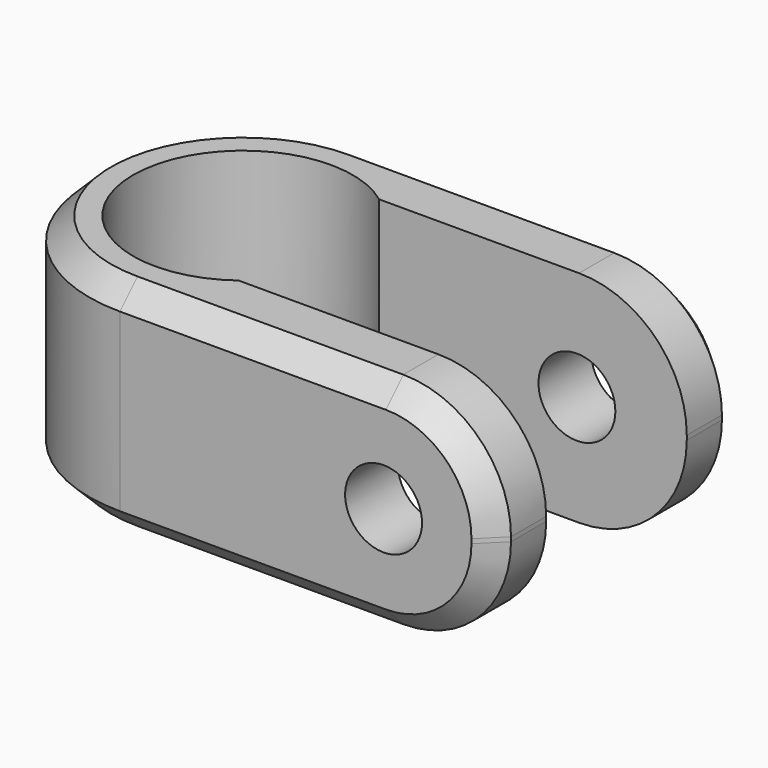
from build123d import *

# Parameters (mm, degrees)
CYLINDER_R          = 1.75
CYLINDER_DEPTH      = 20
CYLINDER_ROLL_ANGLE = -90
PAD006_DEPTH        = 10
FILLET_R            = 4.9
CHAMFER_SIZE        = 1


with BuildPart() as cylinder:
    # Cylinder → Cylinder (new body)
    with BuildSketch(Plane.XY):
        Circle(CYLINDER_R)
    extrude(amount=CYLINDER_DEPTH)


with BuildPart() as cylinder_1:
    # Cylinder roll: moved
    add(cylinder.part.rotate(Axis((0, 0, 0), (1, 0, 0)), CYLINDER_ROLL_ANGLE))


with BuildPart() as cylinder_2:
    # Cylinder placement: moved
    add(cylinder_1.part.moved(Location((12, -10, 5))))


with BuildPart() as chamfer_body:
    # Sketch005 → Pad006 (new body)
    with BuildSketch(Plane.XY):
        with BuildLine():
            ThreePointArc((3, 4), (-5, 0), (3, -4))
            Line((17, -4), (3, -4))
            Line((17, -7), (17, -4))
            Line((0, -7), (17, -7))
            ThreePointArc((0, 7), (-7, 0), (0, -7))
            Line((0, 7), (17, 7))
            Line((17, 4), (17, 7))
            Line((3, 4), (17, 4))
        make_face()
    extrude(amount=PAD006_DEPTH)

    # Cut004: cut Cylinder
    add(cylinder_2.part, mode=Mode.SUBTRACT)

    # Fillet
    fillet_edges = [chamfer_body.edges().sort_by_distance(p)[0] for p in [
        (17, -5.5, 0),
        (17, 5.5, 0),
        (17, -5.5, 10),
        (17, 5.5, 10),
    ]]
    fillet(fillet_edges, radius=FILLET_R)

    # Chamfer
    chamfer_edges = [chamfer_body.edges().sort_by_distance(p)[0] for p in [
        (6.05, -7, 10),
    ]]
    chamfer(chamfer_edges, length=CHAMFER_SIZE)


solid = chamfer_body.part
